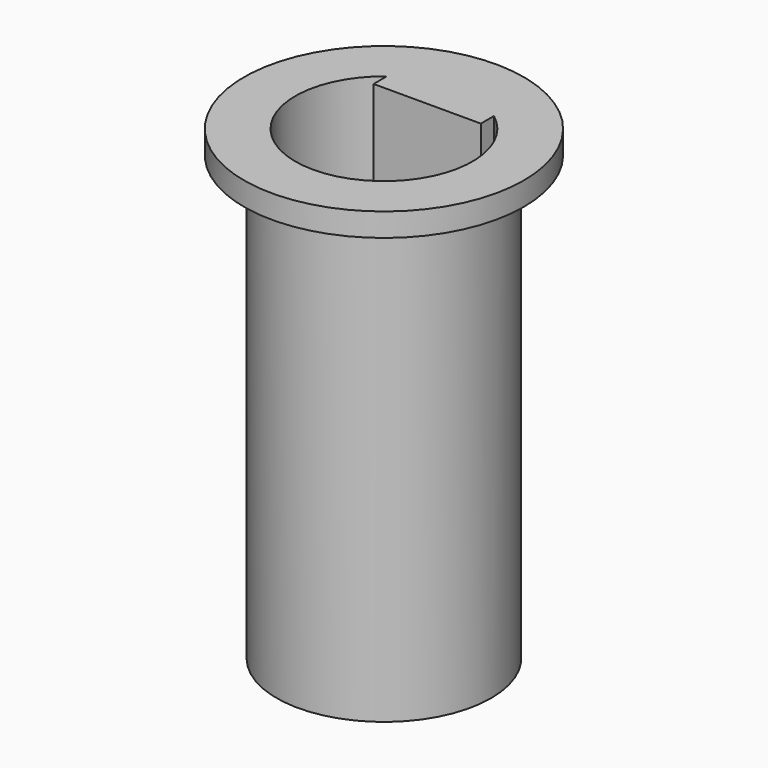
from build123d import *

# Parameters (mm, degrees)
F0_R     = 23
F1_DEPTH = 100
F2_R     = 30
F2_R_2   = 23
F3_DEPTH = 5


with BuildPart() as f1:
    # F0 (on Top) → F1 (new body)
    with BuildSketch(Plane.XY):
        Circle(F0_R)
        with BuildLine():
            ThreePointArc((11.5, 15.124483), (0, -19), (-11.5, 15.124483))
            Line((-11.5, 15.124483), (-11.5, 11.6))
            Line((-11.5, 11.6), (11.5, 11.6))
            Line((11.5, 11.6), (11.5, 15.124483))
        make_face(mode=Mode.SUBTRACT)
    extrude(amount=F1_DEPTH)

    # F2 (on face) → F3 (join)
    with BuildSketch(Plane.XY.offset(100)):
        Circle(F2_R)
        Circle(F2_R_2, mode=Mode.SUBTRACT)
    extrude(amount=-F3_DEPTH)


solid = f1.part
